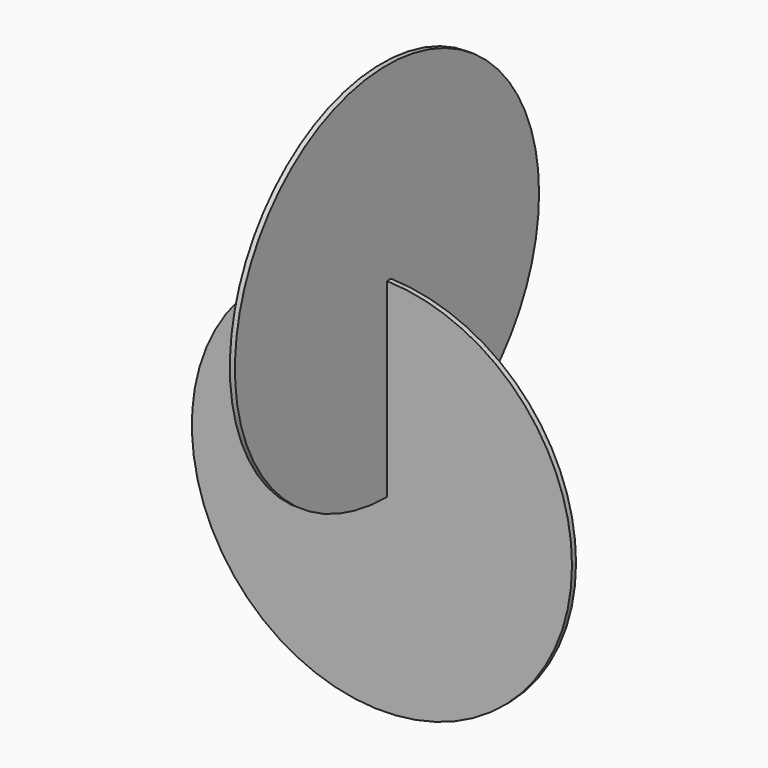
from build123d import *

# Parameters (mm, degrees)
F0_R     = 75
F1_DEPTH = 2
F2_R     = 75
F3_DEPTH = 2


with BuildPart() as f1:
    # F0 (on Front) → F1 (new body)
    with BuildSketch(Plane.XZ):
        Circle(F0_R)
        Circle(F0_R)
    extrude(amount=F1_DEPTH)

    # F2 (on Right) → F3 (join)
    with BuildSketch(Plane.YZ):
        with Locations((-2, 74.973329)):
            Circle(F2_R)
        with Locations((-2, 74.973329)):
            Circle(F2_R)
    extrude(amount=F3_DEPTH)


solid = f1.part
